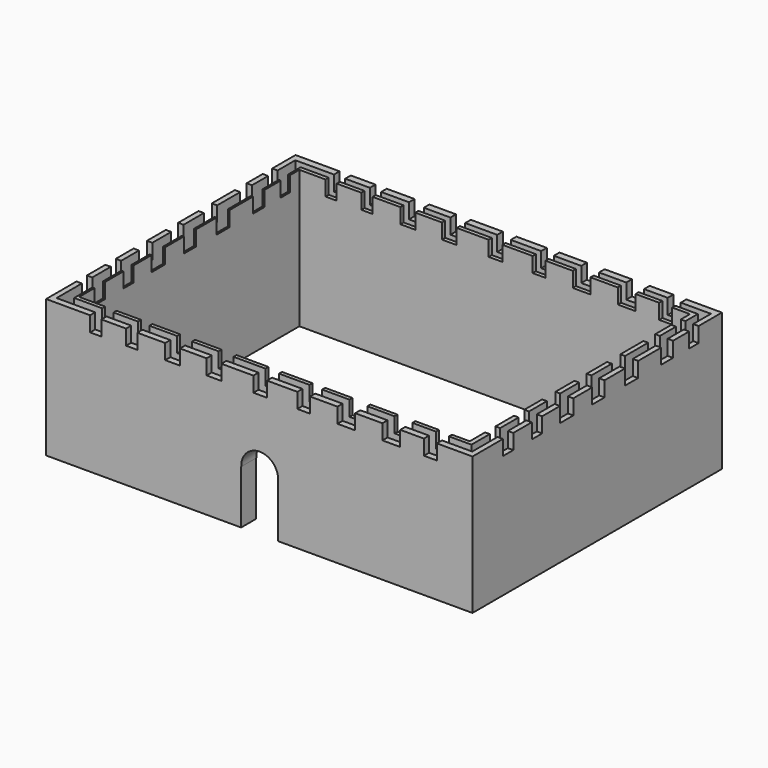
from build123d import *

# Parameters (mm, degrees)
F0_W      = 1148.0081677437
F0_H      = 839.544326067
F1_DEPTH  = 370.84
F2_W      = 1048.8991141319
F2_H      = 739.6491765976
F4_DEPTH  = 386.08
F5_W      = 1119.0381646156
F5_H      = 803.4119904041
F6_DEPTH  = 71.12
F7_W      = 1069.6219801903
F7_H      = 761.9661986828
F8_DEPTH  = 271.78
F9_W      = 1051.7204403877
F9_H      = 741.3149476051
F10_DEPTH = 421.64
F11_W     = 765.1543170214
F11_H     = 41.4458587766
F11_W_2   = 489.3799871206
F12_DEPTH = 40.64
F13_W     = 36.6636514664
F13_H     = 839.544326067
F14_DEPTH = 40.64
F15_W     = 39.8517847061
F15_H     = 857.6104342937
F16_DEPTH = 40.64
F17_W     = 34.1222509742
F17_H     = 849.2651581764
F18_DEPTH = 40.64
F19_W     = 39.8517847061
F19_H     = 860.7985675335
F20_DEPTH = 40.64
F21_W     = 30.3111076355
F21_H     = 884.9186599255
F22_DEPTH = 40.64
F23_W     = 30.2873551846
F23_H     = 849.6401011944
F24_DEPTH = 40.64
F25_W     = 47.8221178055
F25_H     = 859.2045009136
F26_DEPTH = 40.64
F27_W     = 47.8221476078
F27_H     = 859.2045307159
F28_DEPTH = 40.64
F29_W     = 35.0695550442
F29_H     = 865.5808269978
F30_DEPTH = 40.64
F31_W     = 1185.9892606735
F31_H     = 44.6339920163
F32_DEPTH = 40.64
F33_W     = 1176.424741745
F33_H     = 44.6339920163
F34_DEPTH = 40.64
F35_W     = 1199.9661922455
F35_H     = 39.8093163967
F36_DEPTH = 40.64
F37_W     = 1197.147667408
F37_H     = 31.8814218044
F38_DEPTH = 40.64
F39_W     = 1170.2119708061
F39_H     = 34.8516702652
F40_DEPTH = 40.64
F41_W     = 1172.8928685188
F41_H     = 34.8516702652
F42_DEPTH = 40.64
F43_R     = 49.6871576093
F44_DEPTH = 93.98
F45_W     = 99.6161906765
F45_H     = 144.4254293376
F46_DEPTH = 83.82


with BuildPart() as f1:
    # F0 (on Top) → F1 (new body)
    with BuildSketch(Plane.XY):
        with Locations((-1.1305510998, -2.4126917124)):
            Rectangle(F0_W, F0_H)
    extrude(amount=F1_DEPTH)

    # F2 (on face) → F4 (cut)
    with BuildSketch(Plane.XY.offset(370.84)):
        with Locations((0.4635155201, -0.0215768814)):
            Rectangle(F2_W, F2_H)
    extrude(amount=-F4_DEPTH, mode=Mode.SUBTRACT)

    # F5 (on face) → F6 (cut)
    with BuildSketch(Plane.XY.offset(370.84)):
        with Locations((-1.1305510998, -3.20969522)):
            Rectangle(F5_W, F5_H)
    extrude(amount=-F6_DEPTH, mode=Mode.SUBTRACT)

    # F7 (on face) → F8 (join)
    with BuildSketch(Plane.XY.offset(370.84)):
        with Locations((2.6890337467, -0.4896074533)):
            Rectangle(F7_W, F7_H)
    extrude(amount=-F8_DEPTH)

    # F9 (on face) → F10 (cut)
    with BuildSketch(Plane.XY.offset(370.84)):
        with Locations((-0.9471476078, -0.8066296577)):
            Rectangle(F9_W, F9_H)
    extrude(amount=-F10_DEPTH, mode=Mode.SUBTRACT)

    # F11 (on face) → F12 (cut)
    with BuildSketch(Plane.XY.offset(370.84)):
        with Locations((-229.0827855468, 1.5724878758)):
            Rectangle(F11_W, F11_H)
        with Locations((398.1843665242, 1.5724878758)):
            Rectangle(F11_W_2, F11_H)
    extrude(amount=-F12_DEPTH, mode=Mode.SUBTRACT)

    # F13 (on face) → F14 (cut)
    with BuildSketch(Plane.XY.offset(370.84)):
        with Locations((1.2605562806, -2.4126917124)):
            Rectangle(F13_W, F13_H)
    extrude(amount=-F14_DEPTH, mode=Mode.SUBTRACT)

    # F15 (on face) → F16 (cut)
    with BuildSketch(Plane.XY.offset(370.84)):
        with Locations((-123.0770200491, -4.8037916422)):
            Rectangle(F15_W, F15_H)
    extrude(amount=-F16_DEPTH, mode=Mode.SUBTRACT)

    # F17 (on face) → F18 (cut)
    with BuildSketch(Plane.XY.offset(370.84)):
        with Locations((118.3907873929, -0.5005300045)):
            Rectangle(F17_W, F17_H)
    extrude(amount=-F18_DEPTH, mode=Mode.SUBTRACT)

    # F19 (on face) → F20 (cut)
    with BuildSketch(Plane.XY.offset(370.84)):
        with Locations((-234.6620261669, -3.2097250223)):
            Rectangle(F19_W, F19_H)
    extrude(amount=-F20_DEPTH, mode=Mode.SUBTRACT)

    # F21 (on face) → F22 (cut)
    with BuildSketch(Plane.XY.offset(370.84)):
        with Locations((-344.7051942348, -16.9041901827)):
            Rectangle(F21_W, F21_H)
    extrude(amount=-F22_DEPTH, mode=Mode.SUBTRACT)

    # F23 (on face) → F24 (cut)
    with BuildSketch(Plane.XY.offset(370.84)):
        with Locations((-441.4526373148, -2.0029991865)):
            Rectangle(F23_W, F23_H)
    extrude(amount=-F24_DEPTH, mode=Mode.SUBTRACT)

    # F25 (on face) → F26 (cut)
    with BuildSketch(Plane.XY.offset(370.84)):
        with Locations((233.1979572773, -2.4126917124)):
            Rectangle(F25_W, F25_H)
    extrude(amount=-F26_DEPTH, mode=Mode.SUBTRACT)

    # F27 (on face) → F28 (cut)
    with BuildSketch(Plane.XY.offset(370.84)):
        with Locations((354.3473929167, -7.1949064732)):
            Rectangle(F27_W, F27_H)
    extrude(amount=-F28_DEPTH, mode=Mode.SUBTRACT)

    # F29 (on face) → F30 (cut)
    with BuildSketch(Plane.XY.offset(370.84)):
        with Locations((459.5560878515, -5.6008547544)):
            Rectangle(F29_W, F29_H)
    extrude(amount=-F30_DEPTH, mode=Mode.SUBTRACT)

    # F31 (on face) → F32 (cut)
    with BuildSketch(Plane.XY.offset(370.84)):
        with Locations((5.245745182, 113.157492131)):
            Rectangle(F31_W, F31_H)
    extrude(amount=-F32_DEPTH, mode=Mode.SUBTRACT)

    # F33 (on face) → F34 (cut)
    with BuildSketch(Plane.XY.offset(370.84)):
        with Locations((3.6516785622, -105.2302978933)):
            Rectangle(F33_W, F33_H)
    extrude(amount=-F34_DEPTH, mode=Mode.SUBTRACT)

    # F35 (on face) → F36 (cut)
    with BuildSketch(Plane.XY.offset(370.84)):
        with Locations((-8.3213448524, 232.8976839781)):
            Rectangle(F35_W, F35_H)
    extrude(amount=-F36_DEPTH, mode=Mode.SUBTRACT)

    # F37 (on face) → F38 (cut)
    with BuildSketch(Plane.XY.offset(370.84)):
        with Locations((-11.5796029568, 322.8979259729)):
            Rectangle(F37_W, F37_H)
    extrude(amount=-F38_DEPTH, mode=Mode.SUBTRACT)

    # F39 (on face) → F40 (cut)
    with BuildSketch(Plane.XY.offset(370.84)):
        with Locations((3.1723678112, -205.1127254963)):
            Rectangle(F39_W, F39_H)
    extrude(amount=-F40_DEPTH, mode=Mode.SUBTRACT)

    # F41 (on face) → F42 (cut)
    with BuildSketch(Plane.XY.offset(370.84)):
        with Locations((-0.9557902813, -302.2831976414)):
            Rectangle(F41_W, F41_H)
    extrude(amount=-F42_DEPTH, mode=Mode.SUBTRACT)

    # F43 (on face) → F44 (cut)
    with BuildSketch(Plane.XZ.offset(422.1848547459)):
        with Locations((0, 146.4520543814)):
            Circle(F43_R)
    extrude(amount=-F44_DEPTH, mode=Mode.SUBTRACT)

    # F45 (on face) → F46 (cut)
    with BuildSketch(Plane.XZ.offset(422.1848547459)):
        with Locations((-0.1622856236, 72.2127146688)):
            Rectangle(F45_W, F45_H)
    extrude(amount=-F46_DEPTH, mode=Mode.SUBTRACT)


solid = f1.part
